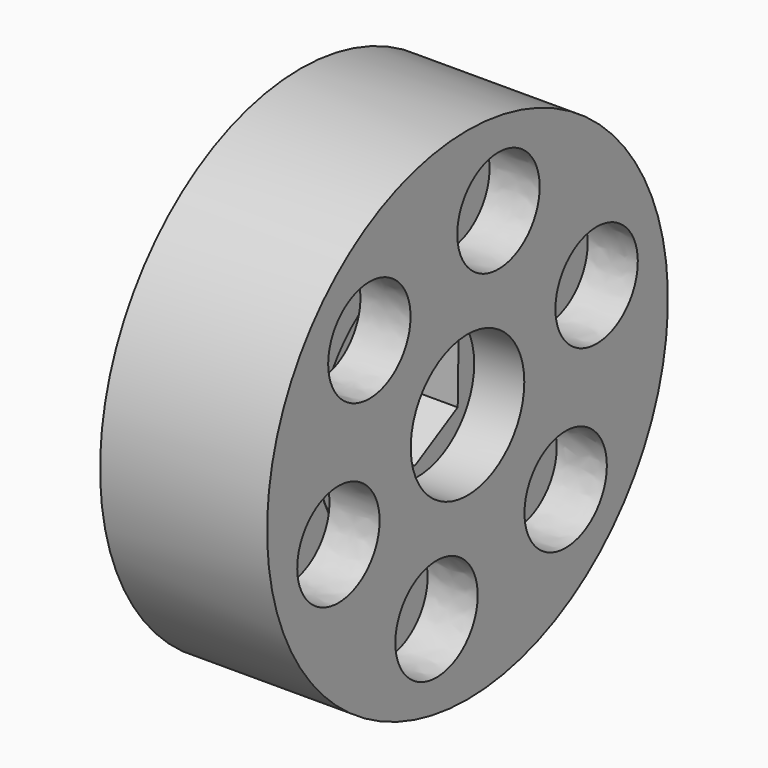
from build123d import *

# Parameters (mm, degrees)
F0_W     = 3.8
F0_H     = 7.4
F2_R     = 4.25
F3_DEPTH = 3
F5_DEPTH = 3.8
F8_DEPTH = 3


with BuildPart() as f1:
    # F0 (on Front) → F1 (revolve)
    with BuildSketch(Plane.XZ):
        Polygon((1.7411876178, 15), (1.7411876178, 0), (4.7411876178, 0), (4.7411876178, 7.5), (8.7411876178, 7.5), (8.7411876178, 0), (11.7411876178, 0), (11.7411876178, 15), align=None)
    revolve(axis=Axis((13.5514412541, 0, 0), (1, 0, 0)))

    # F2 (on face) → F3 (cut)
    with BuildSketch(Plane.YZ.offset(11.7411876178)):
        Circle(F2_R)
    extrude(amount=-F3_DEPTH, mode=Mode.SUBTRACT)

    # F7 (on face) → F8 (cut)
    with BuildSketch(Plane.YZ.offset(11.7411876178)):
        with BuildLine():
            add(Edge.make_bspline(
                [(-5.2398015868, 4.6661241851), (-1.3411760526, 8.3125768665), (-6.4484094755, 9.8656592782), (-11.5556428984, 11.41874169), (-10.3470350097, 6.2192065969), (-9.138427121, 1.0196715037), (-5.2398015868, 4.6661241851)],
                knots=[0, 0, 0, 2.0943951024, 2.0943951024, 4.1887902048, 4.1887902048, 6.2831853072, 6.2831853072, 6.2831853072], degree=2, weights=[1, 0.5, 1, 0.5, 1, 0.5, 1]))
        make_face()
        with BuildLine():
            add(Edge.make_bspline(
                [(1.4210812881, 6.8708633775), (6.528314711, 5.3177809657), (5.3197068223, 10.5173160589), (4.1110989336, 15.7168511521), (0.2124733994, 12.0703984707), (-3.6861521348, 8.4239457893), (1.4210812881, 6.8708633775)],
                knots=[0, 0, 0, 2.0943951024, 2.0943951024, 4.1887902048, 4.1887902048, 6.2831853072, 6.2831853072, 6.2831853072], degree=2, weights=[1, 0.5, 1, 0.5, 1, 0.5, 1]))
        make_face()
        with BuildLine():
            add(Edge.make_bspline(
                [(6.6608828749, 2.2047391924), (7.8694907636, -2.9947959007), (11.7681162978, 0.6516567806), (15.666741832, 4.298109462), (10.5595084091, 5.8511918738), (5.4522749862, 7.4042742856), (6.6608828749, 2.2047391924)],
                knots=[0, 0, 0, 2.0943951024, 2.0943951024, 4.1887902048, 4.1887902048, 6.2831853072, 6.2831853072, 6.2831853072], degree=2, weights=[1, 0.5, 1, 0.5, 1, 0.5, 1]))
        make_face()
        with BuildLine():
            add(Edge.make_bspline(
                [(5.2398015868, -4.6661241851), (1.3411760526, -8.3125768665), (6.4484094755, -9.8656592782), (11.5556428984, -11.41874169), (10.3470350097, -6.2192065969), (9.138427121, -1.0196715037), (5.2398015868, -4.6661241851)],
                knots=[0, 0, 0, 2.0943951024, 2.0943951024, 4.1887902048, 4.1887902048, 6.2831853072, 6.2831853072, 6.2831853072], degree=2, weights=[1, 0.5, 1, 0.5, 1, 0.5, 1]))
        make_face()
        with BuildLine():
            add(Edge.make_bspline(
                [(-1.4210812881, -6.8708633775), (-6.528314711, -5.3177809657), (-5.3197068223, -10.5173160589), (-4.1110989336, -15.7168511521), (-0.2124733994, -12.0703984707), (3.6861521348, -8.4239457893), (-1.4210812881, -6.8708633775)],
                knots=[0, 0, 0, 2.0943951024, 2.0943951024, 4.1887902048, 4.1887902048, 6.2831853072, 6.2831853072, 6.2831853072], degree=2, weights=[1, 0.5, 1, 0.5, 1, 0.5, 1]))
        make_face()
        with BuildLine():
            add(Edge.make_bspline(
                [(-6.6608828749, -2.2047391924), (-7.8694907636, 2.9947959007), (-11.7681162978, -0.6516567806), (-15.666741832, -4.298109462), (-10.5595084091, -5.8511918738), (-5.4522749862, -7.4042742856), (-6.6608828749, -2.2047391924)],
                knots=[0, 0, 0, 2.0943951024, 2.0943951024, 4.1887902048, 4.1887902048, 6.2831853072, 6.2831853072, 6.2831853072], degree=2, weights=[1, 0.5, 1, 0.5, 1, 0.5, 1]))
        make_face()
    extrude(amount=-F8_DEPTH, mode=Mode.SUBTRACT)


with BuildPart() as f1b:
    # F0 (on Front) → F1, piece 2 (revolve)
    with BuildSketch(Plane.XZ):
        with Locations((6.7411876178, 3.7)):
            Rectangle(F0_W, F0_H)
    revolve(axis=Axis((13.5514412541, 0, 0), (1, 0, 0)))

    # F4 (on face) → F5 (cut)
    with BuildSketch(Plane.YZ.offset(8.6411876178)):
        Polygon((-3.2073198489, -1.7759315077), (-0.0656581235, -3.6655862211), (3.1416617255, -1.8896547134), (3.2073198489, 1.7759315077), (0.0656581235, 3.6655862211), (-3.1416617255, 1.8896547134), align=None)
    extrude(amount=-F5_DEPTH, mode=Mode.SUBTRACT)


solid = Compound([f1.part, f1b.part])
